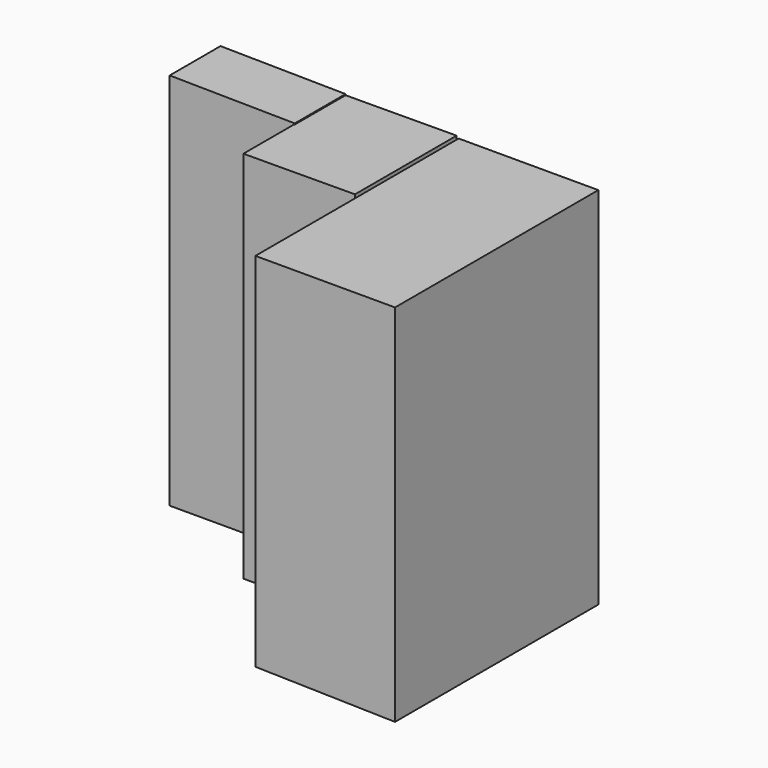
from build123d import *

# Parameters (mm, degrees)
F3_DEPTH = 25
F4_DEPTH = 50
F5_DEPTH = 100


with BuildPart() as f3:
    # F0 (on Front) → F3 (new body)
    with BuildSketch(Plane.XZ):
        Polygon((-25.727972, 74.52938), (-74.937776, 75.141951), (-74.937776, -73.916793), (-25.727972, -73.916793), align=None)
    extrude(amount=F3_DEPTH)

    # F1 (on Front) → F4 (join)
    with BuildSketch(Plane.XZ):
        Polygon((17.968714, 74.325189), (-25.932163, 74.120998), (-25.932163, -73.10003), (17.968714, -73.10003), align=None)
    extrude(amount=F4_DEPTH)


with BuildPart() as f5:
    # F2 (on Front) → F5 (new body)
    with BuildSketch(Plane.XZ):
        Polygon((18.791407, 73.602609), (18.791407, -68.762794), (73.735863, -69.988325), (73.735863, 73.602609), align=None)
    extrude(amount=F5_DEPTH)


solid = Compound([f3.part, f5.part])
